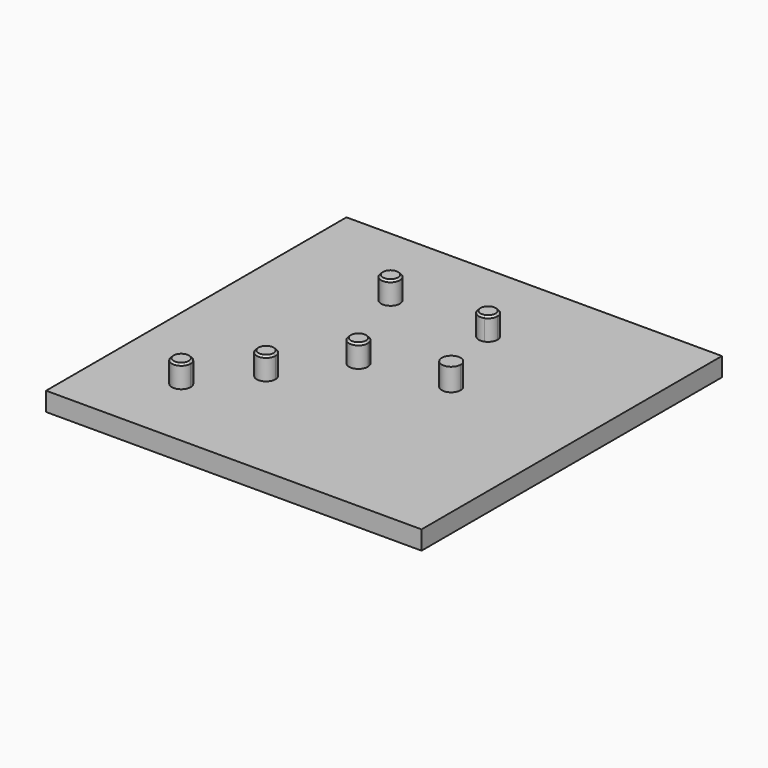
from build123d import *

# Parameters (mm, degrees)
F0_W     = 200
F0_H     = 200
F1_DEPTH = 10
F2_R     = 5
F3_DEPTH = 12
F4_SIZE  = 1


with BuildPart() as f1:
    # F0 (on Top) → F1 (new body)
    with BuildSketch(Plane.XY):
        Rectangle(F0_W, F0_H)
    extrude(amount=F1_DEPTH)

    # F2 (on face) → F3 (join)
    with BuildSketch(Plane.XY.offset(10)):
        with BuildLine():
            Line((-60, -60), (-55, -60))
            ThreePointArc((-55, -60), (-55.4684610648, -57.8869086913), (-56.7860619516, -56.1697777844))
            Line((-56.7860619516, -56.1697777844), (-60, -60))
        make_face()
        with Locations((-39.0020143443, 53.0894473389)):
            Circle(F2_R)
        with BuildLine():
            ThreePointArc((7.9979856557, 53.0894473389), (10.1301034739, 48.9936871175), (14.7080863723, 48.390984235))
            Line((14.7080863723, 48.390984235), (12.9979856557, 53.0894473389))
            Line((12.9979856557, 53.0894473389), (7.9979856557, 53.0894473389))
        make_face()
        with BuildLine():
            Line((12.9979856557, 53.0894473389), (14.7080863723, 48.390984235))
            ThreePointArc((14.7080863723, 48.390984235), (17.0937458771, 50.2215651572), (17.9979856557, 53.0894473389))
            ThreePointArc((17.9979856557, 53.0894473389), (12.9979856557, 58.0894473389), (7.9979856557, 53.0894473389))
            Line((7.9979856557, 53.0894473389), (12.9979856557, 53.0894473389))
        make_face()
        with BuildLine():
            ThreePointArc((27.7048518187, 12.6826646451), (25.0848255164, 10.4842015412), (24.4909137702, 7.1159606529))
            Line((24.4909137702, 7.1159606529), (29.4149525353, 7.9842015412))
            Line((29.4149525353, 7.9842015412), (27.7048518187, 12.6826646451))
        make_face()
        with BuildLine():
            Line((29.4149525353, 7.9842015412), (24.4909137702, 7.1159606529))
            ThreePointArc((24.4909137702, 7.1159606529), (29.850731249, 3.0032280507), (34.4149525353, 7.9842015412))
            ThreePointArc((34.4149525353, 7.9842015412), (32.282834717, 12.0799617626), (27.7048518187, 12.6826646451))
            Line((27.7048518187, 12.6826646451), (29.4149525353, 7.9842015412))
        make_face()
        with BuildLine():
            ThreePointArc((-8.9925498322, 1.2119226122), (-16.603086639, 4.5606389529), (-16.784470779, -3.7520784976))
            Line((-16.784470779, -3.7520784976), (-13.9165885972, 0.3436817238))
            Line((-13.9165885972, 0.3436817238), (-8.9925498322, 1.2119226122))
        make_face()
        with BuildLine():
            Line((-13.9165885972, 0.3436817238), (-16.784470779, -3.7520784976))
            ThreePointArc((-16.784470779, -3.7520784976), (-11.6078455311, -4.091372442), (-8.9165885972, 0.3436817238))
            ThreePointArc((-8.9165885972, 0.3436817238), (-8.9356151068, 0.7794604376), (-8.9925498322, 1.2119226122))
            Line((-8.9925498322, 1.2119226122), (-13.9165885972, 0.3436817238))
        make_face()
        with BuildLine():
            ThreePointArc((-33.9917638695, -28.3266398263), (-40.8264127527, -29.3785929027), (-40.0735840997, -36.2526222633))
            Line((-40.0735840997, -36.2526222633), (-36.8596460513, -32.4224000477))
            Line((-36.8596460513, -32.4224000477), (-33.9917638695, -28.3266398263))
        make_face()
        with BuildLine():
            Line((-36.8596460513, -32.4224000477), (-40.0735840997, -36.2526222633))
            ThreePointArc((-40.0735840997, -36.2526222633), (-34.7465547426, -36.9539389829), (-31.8596460513, -32.4224000477))
            ThreePointArc((-31.8596460513, -32.4224000477), (-32.4245918854, -30.1136569815), (-33.9917638695, -28.3266398263))
            Line((-33.9917638695, -28.3266398263), (-36.8596460513, -32.4224000477))
        make_face()
        with BuildLine():
            ThreePointArc((-56.7860619516, -56.1697777844), (-64.5315389352, -62.1130913087), (-55, -60))
            Line((-55, -60), (-60, -60))
            Line((-60, -60), (-56.7860619516, -56.1697777844))
        make_face()
    extrude(amount=F3_DEPTH)

    # F4
    f4_edges = [f1.edges().sort_by_distance(p)[0] for p in [
        (-63.213938, -63.830222, 22),
        (-33.645708, -28.592178, 22),
        (-11.048706, 4.439442, 22),
        (11.287885, 57.78791, 22),
        (-44.002014, 53.089447, 22),
    ]]
    chamfer(f4_edges, length=F4_SIZE)


solid = f1.part
